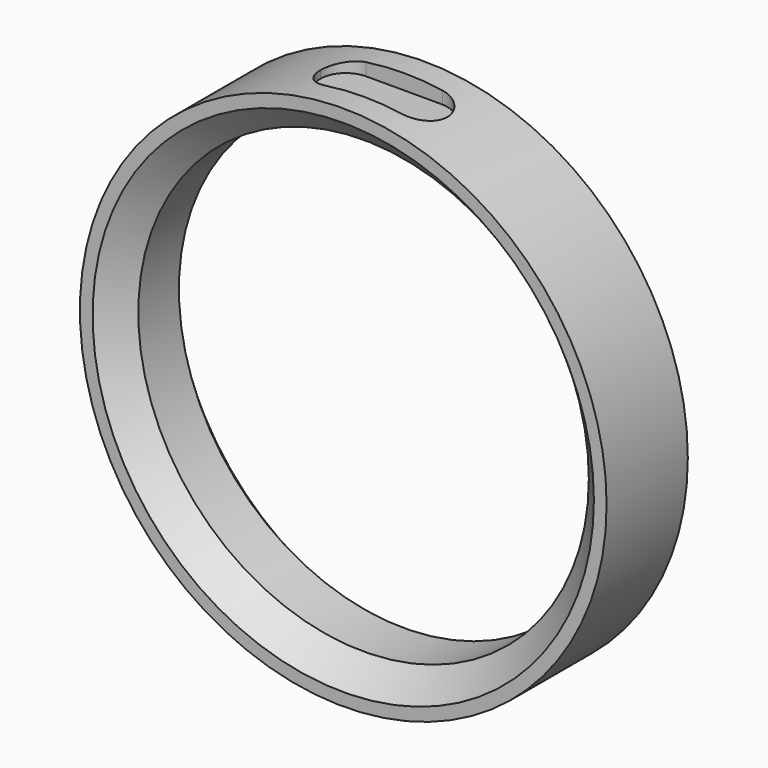
from build123d import *

# Parameters (mm, degrees)
F0_R          = 10.375
F0_R_2        = 8.875
F1_DEPTH      = 2
F1_DEPTH_BACK = 2
F2_SIZE       = 1
F4_START      = 9.775
F3_R          = 0.75
F4_DEPTH      = 15.225


with BuildPart() as f1:
    # F0 (on Front) → F1 (new body, two sides)
    with BuildSketch(Plane.XZ) as f1_sk:
        Circle(F0_R)
        Circle(F0_R_2, mode=Mode.SUBTRACT)
    extrude(amount=F1_DEPTH)
    extrude(f1_sk.sketch, amount=-F1_DEPTH_BACK)

    # F2
    f2_edges = [f1.edges().sort_by_distance(p)[0] for p in [
        (-8.875, -2, 0),
        (-8.875, 2, 0),
    ]]
    chamfer(f2_edges, length=F2_SIZE)

    # F3 (on Top) → F4 (cut)
    with BuildSketch(Plane.XY.offset(F4_START)):
        with BuildLine():
            Line((-1.5, -1), (1.5, -1))
            ThreePointArc((1.5, -1), (2.2071067812, -0.7071067812), (2.5, 0))
            ThreePointArc((2.5, 0), (2.2071067812, 0.7071067812), (1.5, 1))
            Line((1.5, 1), (-1.5, 1))
            ThreePointArc((-1.5, 1), (-2.2071067812, 0.7071067812), (-2.5, 0))
            ThreePointArc((-2.5, 0), (-2.2071067812, -0.7071067812), (-1.5, -1))
        make_face()
        Circle(F3_R, mode=Mode.SUBTRACT)
        Circle(F3_R)
    extrude(amount=F4_DEPTH, mode=Mode.SUBTRACT)


solid = f1.part
